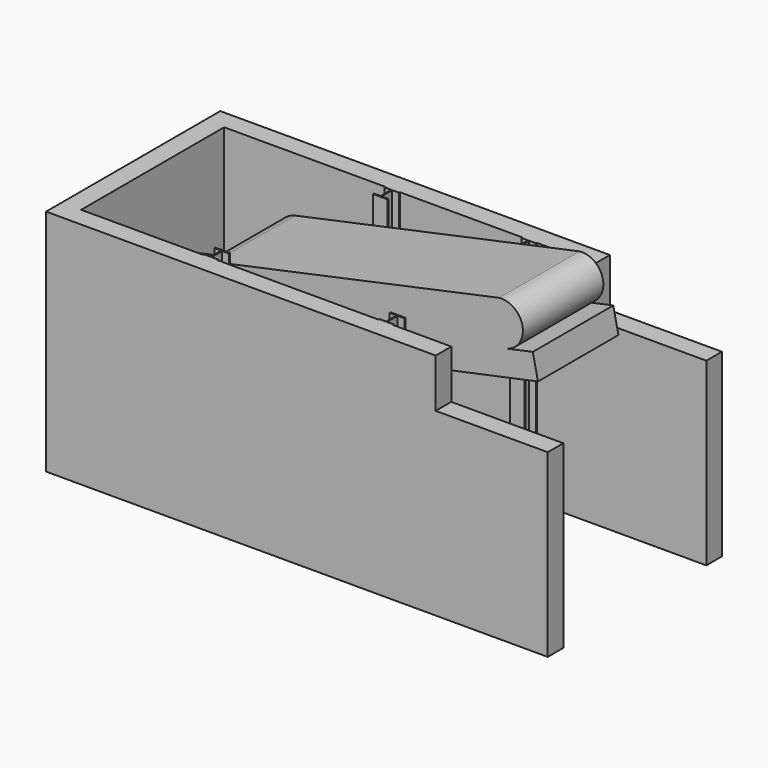
from build123d import *

# Parameters (mm, degrees)
F1_DEPTH = 4700
F2_W     = 2300
F2_H     = 1000
F3_DEPTH = 4470.001
F6_DEPTH = 2065
F8_DEPTH = 4700


with BuildPart() as f1:
    # F0 (on Top) → F1 (new body)
    with BuildSketch(Plane.XY):
        Polygon((-4950, 1835), (4950, 1835), (4950, 2235), (-5350, 2235), (-5350, -2235), (4950, -2235), (4950, -1835), (-4950, -1835), align=None)
    extrude(amount=F1_DEPTH)

    # F2 (on face) → F3 (cut, through all)
    with BuildSketch(Plane.XZ.offset(2235)):
        with Locations((3800, 4200)):
            Rectangle(F2_W, F2_H)
    extrude(amount=-F3_DEPTH, mode=Mode.SUBTRACT)


with BuildPart() as f6:
    # F5 (on offset) → F6 (new body)
    with BuildSketch(Plane(origin=(0, -860, 0), x_dir=(-1, 0, 0), z_dir=(0, 1, 0))):
        with BuildLine():
            ThreePointArc((2808.51871225, 3136.3561994048), (3329.6245641025, 3475.421944552), (2991.4811439593, 3997.1267612645))
            Line((2991.4811439593, 3997.1267612645), (-2850.1435312752, 5249.6067315466))
            ThreePointArc((-2850.1435312752, 5249.6067315466), (-3334.4009139264, 4881.9730629905), (-2991.4811439592, 4379.9115545338))
            Line((-2991.4811439592, 4379.9115545338), (-3543.2043215449, 4497.183936155))
            Line((-3543.2043215449, 4497.183936155), (-3649.4826029137, 3997.1839336437))
            Line((-3649.4826029137, 3997.1839336437), (4950, 2170))
            Line((4950, 2170), (4950, 2681.1703))
            Line((4950, 2681.1703), (2808.51871225, 3136.3561994048))
        make_face()
    extrude(amount=F6_DEPTH)


with BuildPart() as f8:
    # F7 (on Top) → F8 (new body)
    with BuildSketch(Plane.XY):
        Polygon((-2450, -1810), (-2450, -1835), (-2150, -1835), (-2150, -1810), (-2290, -1810), (-2290, -1540), (-2150, -1540), (-2150, -1515), (-2450, -1515), (-2450, -1540), (-2310, -1540), (-2310, -1810), align=None)
    extrude(amount=F8_DEPTH)


with BuildPart() as f8b:
    # F7 (on Top) → F8, piece 2 (new body)
    with BuildSketch(Plane.XY):
        Polygon((1150, -1515), (1150, -1540), (1290, -1540), (1290, -1810), (1150, -1810), (1150, -1835), (1450, -1835), (1450, -1810), (1310, -1810), (1310, -1540), (1450, -1540), (1450, -1515), align=None)
    extrude(amount=F8_DEPTH)


with BuildPart() as f8c:
    # F7 (on Top) → F8, piece 3 (new body)
    with BuildSketch(Plane.XY):
        Polygon((-1640, 1540), (-1640, 1515), (-1340, 1515), (-1340, 1540), (-1480, 1540), (-1480, 1810), (-1340, 1810), (-1340, 1835), (-1640, 1835), (-1640, 1810), (-1500, 1810), (-1500, 1540), align=None)
    extrude(amount=F8_DEPTH)


with BuildPart() as f8d:
    # F7 (on Top) → F8, piece 4 (new body)
    with BuildSketch(Plane.XY):
        Polygon((1170, 1540), (1170, 1515), (1470, 1515), (1470, 1540), (1330, 1540), (1330, 1810), (1470, 1810), (1470, 1835), (1170, 1835), (1170, 1810), (1310, 1810), (1310, 1540), align=None)
    extrude(amount=F8_DEPTH)


solid = Compound([f1.part, f6.part, f8.part, f8b.part, f8c.part, f8d.part])
